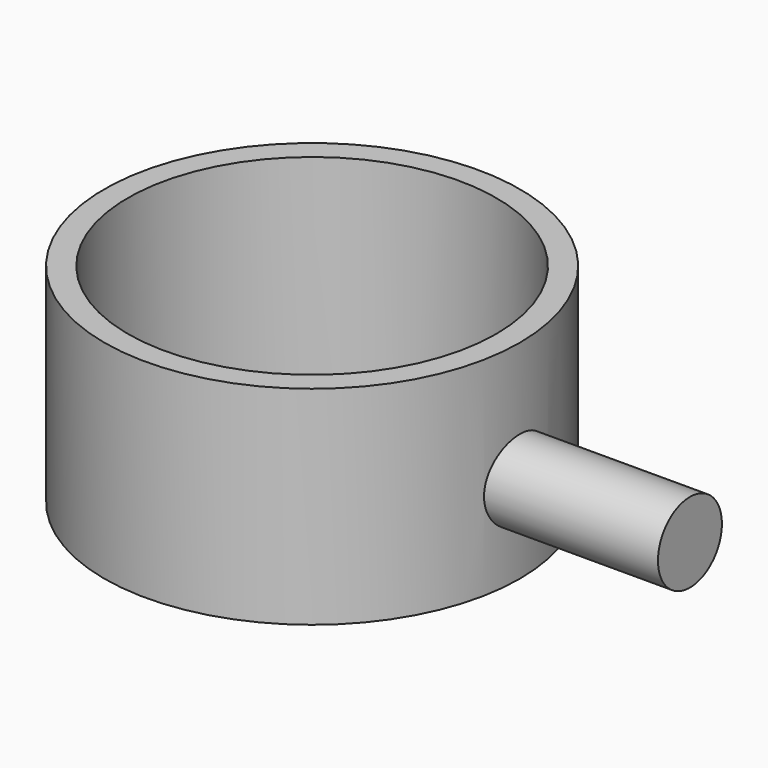
from build123d import *

# Parameters (mm, degrees)
F0_R     = 11
F1_DEPTH = 11
F2_R     = 9.75
F3_DEPTH = 11
F5_R     = 2.116236
F6_DEPTH = 10


with BuildPart() as f1:
    # F0 (on Top) → F1 (new body)
    with BuildSketch(Plane.XY):
        Circle(F0_R)
    extrude(amount=F1_DEPTH)

    # F2 (on face) → F3 (cut)
    with BuildSketch(Plane.XY.offset(11)):
        Circle(F2_R)
    extrude(amount=-F3_DEPTH, mode=Mode.SUBTRACT)

    # F5 (on offset) → F6 (join)
    with BuildSketch(Plane.YZ.offset(10)):
        with Locations((0, 4.627058)):
            Circle(F5_R)
    extrude(amount=F6_DEPTH)


solid = f1.part
